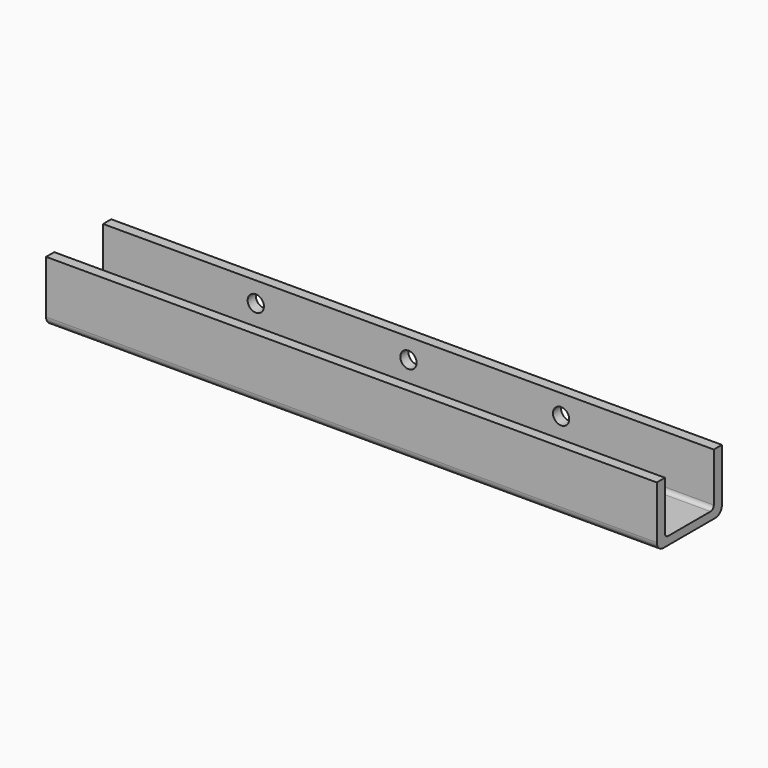
from build123d import *

# Parameters (mm, degrees)
F0_W     = 150
F0_H     = 20
F1_DEPTH = 15
F2_W     = 150
F2_H     = 15
F3_DEPTH = 13
F4_R     = 2
F5_DEPTH = 2.5
F6_R     = 2
F7_R     = 1


with BuildPart() as f1:
    # F0 (on Top) → F1 (new body)
    with BuildSketch(Plane.XY):
        with Locations((1.380986, -6.045858)):
            Rectangle(F0_W, F0_H)
    extrude(amount=F1_DEPTH)

    # F2 (on face) → F3 (cut)
    with BuildSketch(Plane.XY.offset(15)):
        with Locations((1.380986, -6.045858)):
            Rectangle(F2_W, F2_H)
    extrude(amount=-F3_DEPTH, mode=Mode.SUBTRACT)

    # F4 (on face) → F5 (cut)
    with BuildSketch(Plane(origin=(0, 3.954142, 0), x_dir=(-1, 0, 0), z_dir=(0, 1, 0))):
        with Locations((-38.880986, 10)):
            Circle(F4_R)
        with Locations((-1.380986, 10)):
            Circle(F4_R)
        with Locations((36.119014, 10)):
            Circle(F4_R)
    extrude(amount=-F5_DEPTH, mode=Mode.SUBTRACT)

    # F6
    f6_edges = [f1.edges().sort_by_distance(p)[0] for p in [
        (1.380986, -16.045858, 0),
        (1.380986, 3.954142, 0),
    ]]
    fillet(f6_edges, radius=F6_R)

    # F7
    f7_edges = [f1.edges().sort_by_distance(p)[0] for p in [
        (1.380986, -13.545858, 2),
        (1.380986, 1.454142, 2),
    ]]
    fillet(f7_edges, radius=F7_R)


solid = f1.part
